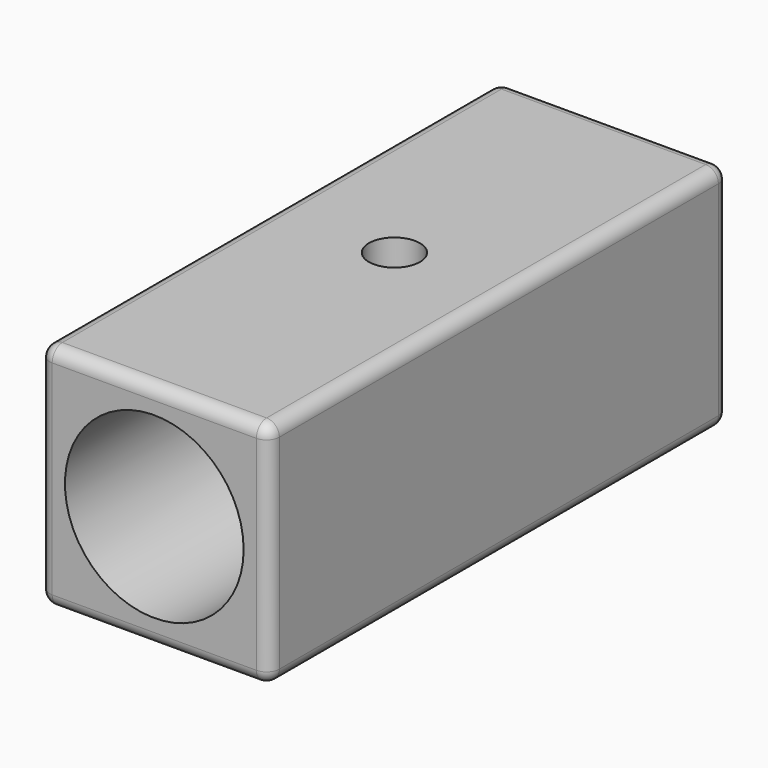
from build123d import *

# Parameters (mm, degrees)
F0_W     = 18
F0_H     = 18
F0_R     = 7
F1_DEPTH = 45
F0_R_2   = 3.75
F2_DEPTH = 25
F3_R     = 2
F4_DEPTH = 25
F5_R     = 1


with BuildPart() as f1:
    # F0 (on Front) → F1 (new body)
    with BuildSketch(Plane.XZ):
        with Locations((-0.41628, 1.888414)):
            Rectangle(F0_W, F0_H)
        with Locations((-0.41628, 1.888414)):
            Circle(F0_R, mode=Mode.SUBTRACT)
    extrude(amount=F1_DEPTH)

    # F0 (on Front) → F2 (join)
    with BuildSketch(Plane.XZ):
        with Locations((-0.41628, 1.888414)):
            Circle(F0_R)
        with Locations((-0.41628, 1.888414)):
            Circle(F0_R_2, mode=Mode.SUBTRACT)
    extrude(amount=F2_DEPTH)

    # F3 (on face) → F4 (cut)
    with BuildSketch(Plane(origin=(0, 0, -7.111586), x_dir=(1, 0, 0), z_dir=(0, 0, -1))):
        with Locations((0, 22)):
            Circle(F3_R)
    extrude(amount=-F4_DEPTH, mode=Mode.SUBTRACT)

    # F5
    f5_edges = [f1.edges().sort_by_distance(p)[0] for p in [
        (-9.41628, -22.5, -7.111586),
        (8.58372, -22.5, -7.111586),
        (-9.41628, -22.5, 10.888414),
        (8.58372, -22.5, 10.888414),
        (-9.41628, 0, 1.888414),
        (-0.41628, 0, 10.888414),
        (-0.41628, 0, -7.111586),
        (8.58372, 0, 1.888414),
        (8.58372, -45, 1.888414),
        (-0.41628, -45, 10.888414),
        (-9.41628, -45, 1.888414),
        (-0.41628, -45, -7.111586),
    ]]
    fillet(f5_edges, radius=F5_R)


solid = f1.part
